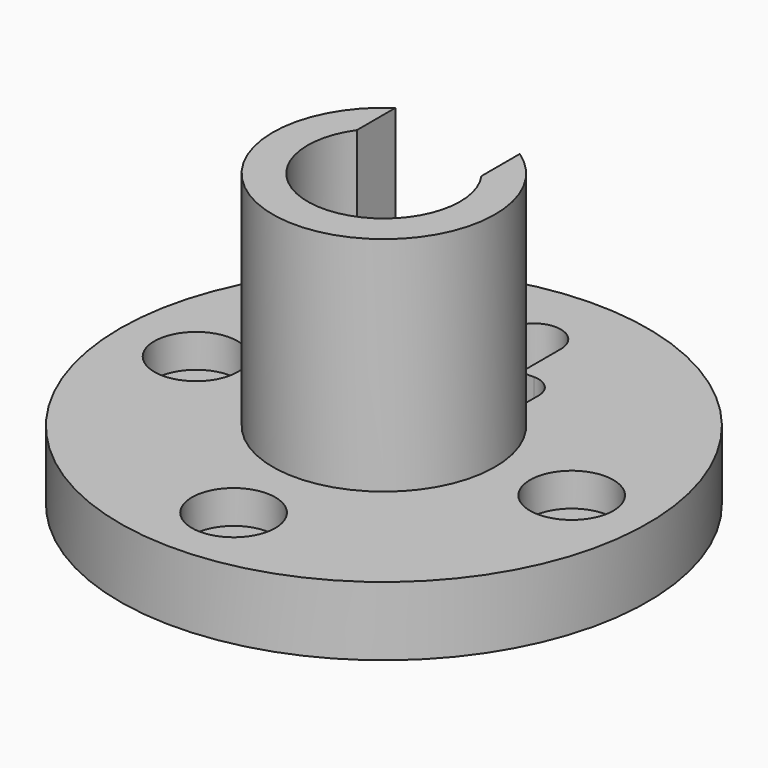
from build123d import *

# Parameters (mm, degrees)
F2_R           = 17.4244
F3_DEPTH       = 101.6
F5_D           = 9.525
F5_CBORE_D     = 19.05
F5_CBORE_DEPTH = 7.62
F7_DEPTH       = 838.2
F8_R           = 5.08


with BuildPart() as f1:
    # F0 (on Front) → F1 (revolve)
    with BuildSketch(Plane.XZ):
        Polygon((25.4, -38.654042), (25.4, 27.893958), (0, 27.893958), (0, -22.906042), (-34.925, -22.906042), (-34.925, -38.654042), align=None)
    revolve(axis=Axis((25.4, 0, -5.380042), (0, 0, -1)))

    # F2 (on face) → F3 (cut)
    with BuildSketch(Plane.XY.offset(27.893958)):
        with Locations((25.4, 0)):
            Circle(F2_R)
    extrude(amount=-F3_DEPTH, mode=Mode.SUBTRACT)

    # F5 (through all)
    with Locations(Plane.XY.offset(-22.906042)):
        with Locations((-17.526, 0), (25.4, -42.926), (68.326, 0)):
            CounterBoreHole(F5_D / 2, F5_CBORE_D / 2, F5_CBORE_DEPTH)

    # F6 (on face) → F7 (cut)
    with BuildSketch(Plane.XY.offset(27.893958)):
        with BuildLine():
            Line((11.176, 0), (39.624, 0))
            Line((39.624, 0), (39.624, 31.496))
            Line((39.624, 31.496), (31.490646, 31.496))
            Line((31.490646, 31.496), (31.490646, 42.67057))
            ThreePointArc((31.490646, 42.67057), (25.4, 49.022), (19.309354, 42.67057))
            Line((19.309354, 42.67057), (19.309354, 31.496))
            Line((19.309354, 31.496), (11.176, 31.496))
            Line((11.176, 31.496), (11.176, 0))
        make_face()
    extrude(amount=-F7_DEPTH, mode=Mode.SUBTRACT)

    # F8
    f8_edges = [f1.edges().sort_by_distance(p)[0] for p in [
        (11.176, 31.496, -30.780042),
        (39.624, 31.496, -30.780042),
    ]]
    fillet(f8_edges, radius=F8_R)


solid = f1.part
